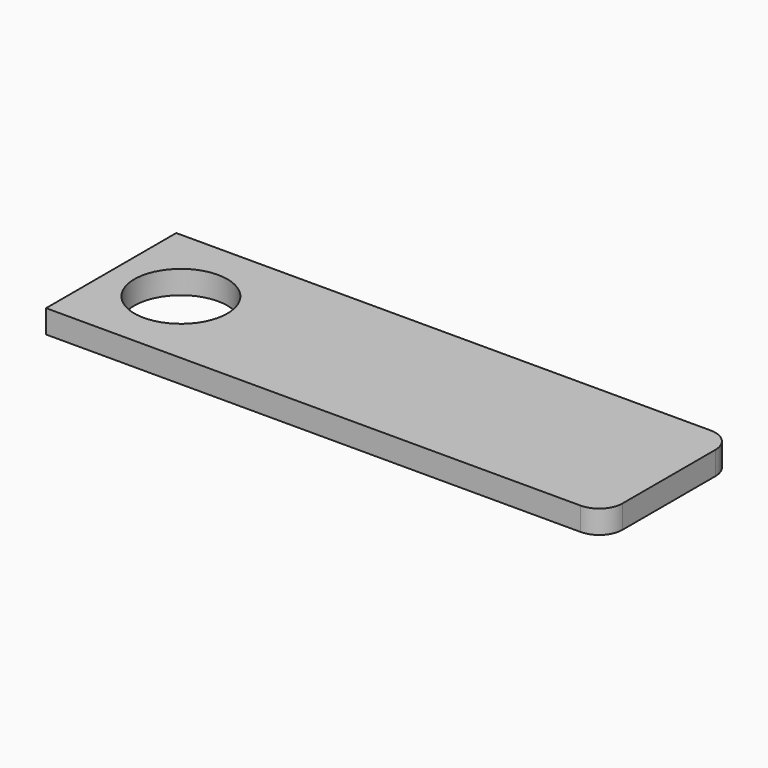
from build123d import *

# Parameters (mm, degrees)
F0_W     = 120
F0_H     = 35
F0_R     = 10
F1_DEPTH = 5
F2_R     = 5
F3_R     = 5


with BuildPart() as f1:
    # F0 (on Top) → F1 (new body)
    with BuildSketch(Plane.XY):
        Rectangle(F0_W, F0_H)
        with Locations((-45, 0)):
            Circle(F0_R, mode=Mode.SUBTRACT)
    extrude(amount=F1_DEPTH)

    # F2
    f2_edges = [f1.edges().sort_by_distance(p)[0] for p in [
        (60, -17.5, 2.5),
    ]]
    fillet(f2_edges, radius=F2_R)

    # F3
    f3_edges = [f1.edges().sort_by_distance(p)[0] for p in [
        (60, 17.5, 2.5),
    ]]
    fillet(f3_edges, radius=F3_R)


solid = f1.part
